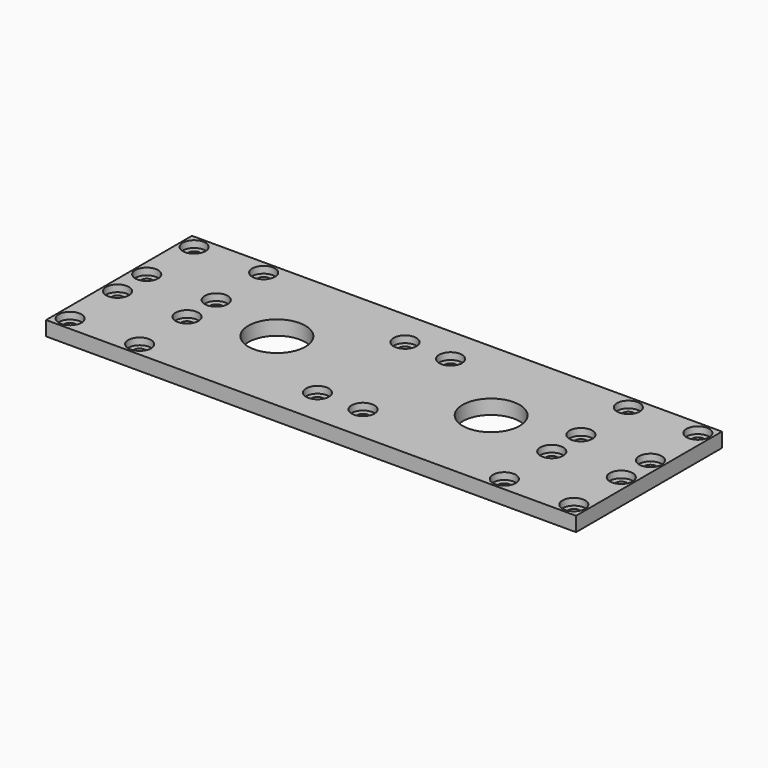
from build123d import *

# Parameters (mm, degrees)
SKETCH023_W      = 232.5
SKETCH023_H      = 80
PAD011_DEPTH     = 6.35
HOLE_D           = 5.1
HOLE_CBORE_D     = 10
HOLE_CBORE_DEPTH = 3
SKETCH025_R      = 12.5
POCKET011_DEPTH  = 6.351


with BuildPart() as part:
    # Sketch023 → Pad011 (new body)
    with BuildSketch(Plane.XY):
        Rectangle(SKETCH023_W, SKETCH023_H)
    extrude(amount=PAD011_DEPTH)

    # Hole (through all)
    with Locations(Plane.XY.offset(6.35)):
        with Locations((-110.5, 34), (-110.5, 8), (-80, 34), (-80, 8), (80, 34), (80, 8), (110.5, 34), (110.5, 8), (-110.5, -8), (-110.5, -34), (-80, -8), (-80, -34), (80, -8), (80, -34), (110.5, -8), (110.5, -34), (-10, 24), (10, 24), (10, -24), (-10, -24)):
            CounterBoreHole(HOLE_D / 2, HOLE_CBORE_D / 2, HOLE_CBORE_DEPTH)

    # Sketch025 → Pocket011 (cut, through all)
    with BuildSketch(Plane.XY.offset(6.35)):
        with Locations((-47, 0)):
            Circle(SKETCH025_R)
        with Locations((47, 0)):
            Circle(SKETCH025_R)
    extrude(amount=-POCKET011_DEPTH, mode=Mode.SUBTRACT)


solid = part.part
